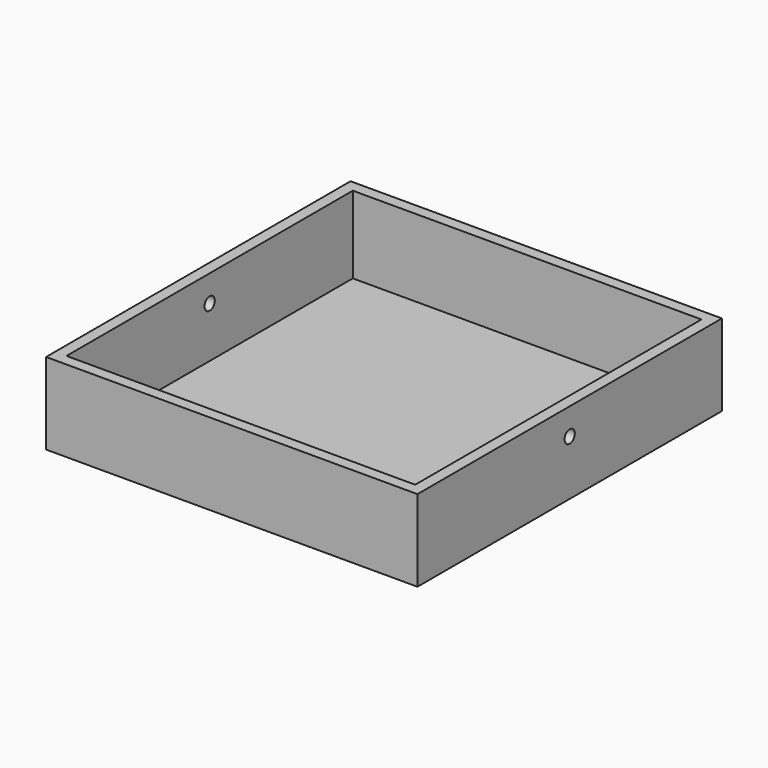
from build123d import *

# Parameters (mm, degrees)
F0_W     = 77.190011016
F0_H     = 79.099989416
F0_W_2   = 72.470011016
F0_H_2   = 74.379989416
F1_DEPTH = 16.95
F2_W     = 79.099989416
F2_H     = 0.9
F3_DEPTH = 74.830011016
F4_R     = 1.33
F5_DEPTH = 77.191011016
F6_R     = 2.3749
F7_DEPTH = 1.8288


with BuildPart() as f1:
    # F0 (on Top) → F1 (new body)
    with BuildSketch(Plane.XY):
        Rectangle(F0_W, F0_H)
        Rectangle(F0_W_2, F0_H_2, mode=Mode.SUBTRACT)
    extrude(amount=F1_DEPTH)

    # F2 (on face) → F3 (join, through all)
    with BuildSketch(Plane(origin=(-38.595005508, 0, 0), x_dir=(0, -1, 0), z_dir=(-1, 0, 0))):
        with Locations((0, 0.45)):
            Rectangle(F2_W, F2_H)
    extrude(amount=-F3_DEPTH)

    # F4 (on face) → F5 (cut, through all)
    with BuildSketch(Plane(origin=(-38.595005508, 0, 0), x_dir=(0, -1, 0), z_dir=(-1, 0, 0))):
        with Locations((0, 11.424992)):
            Circle(F4_R)
    extrude(amount=-F5_DEPTH, mode=Mode.SUBTRACT)

    # F6 (on face) → F7 (join)
    with BuildSketch(Plane(origin=(0, 0, 0), x_dir=(1, 0, 0), z_dir=(0, 0, -1))):
        with Locations((-27.6479, 27.6479)):
            Circle(F6_R)
        with Locations((-19.5961, 27.6479)):
            Circle(F6_R)
        with Locations((-11.8999, 27.6479)):
            Circle(F6_R)
        with Locations((-3.8481, 27.6479)):
            Circle(F6_R)
        with Locations((3.8481, 27.6479)):
            Circle(F6_R)
        with Locations((11.8999, 27.6479)):
            Circle(F6_R)
        with Locations((19.5961, 27.6479)):
            Circle(F6_R)
        with Locations((27.6479, 27.6479)):
            Circle(F6_R)
        with Locations((27.6479, 19.5961)):
            Circle(F6_R)
        with Locations((19.5961, 19.5961)):
            Circle(F6_R)
        with Locations((11.8999, 19.5961)):
            Circle(F6_R)
        with Locations((3.8481, 19.5961)):
            Circle(F6_R)
        with Locations((-3.8481, 19.5961)):
            Circle(F6_R)
        with Locations((-11.8999, 19.5961)):
            Circle(F6_R)
        with Locations((-19.5961, 19.5961)):
            Circle(F6_R)
        with Locations((-27.6479, 19.5961)):
            Circle(F6_R)
        with Locations((-27.6479, 11.8999)):
            Circle(F6_R)
        with Locations((-19.5961, 11.8999)):
            Circle(F6_R)
        with Locations((-11.8999, 11.8999)):
            Circle(F6_R)
        with Locations((-3.8481, 11.8999)):
            Circle(F6_R)
        with Locations((3.8481, 11.8999)):
            Circle(F6_R)
        with Locations((11.8999, 11.8999)):
            Circle(F6_R)
        with Locations((19.5961, 11.8999)):
            Circle(F6_R)
        with Locations((27.6479, 11.8999)):
            Circle(F6_R)
        with Locations((27.6479, 3.8481)):
            Circle(F6_R)
        with Locations((19.5961, 3.8481)):
            Circle(F6_R)
        with Locations((11.8999, 3.8481)):
            Circle(F6_R)
        with Locations((3.8481, 3.8481)):
            Circle(F6_R)
        with Locations((-3.8481, 3.8481)):
            Circle(F6_R)
        with Locations((-11.8999, 3.8481)):
            Circle(F6_R)
        with Locations((-19.5961, 3.8481)):
            Circle(F6_R)
        with Locations((-27.6479, 3.8481)):
            Circle(F6_R)
        with Locations((-27.6479, -3.8481)):
            Circle(F6_R)
        with Locations((-19.5961, -3.8481)):
            Circle(F6_R)
        with Locations((-11.8999, -3.8481)):
            Circle(F6_R)
        with Locations((-3.8481, -3.8481)):
            Circle(F6_R)
        with Locations((3.8481, -3.8481)):
            Circle(F6_R)
        with Locations((11.8999, -3.8481)):
            Circle(F6_R)
        with Locations((19.5961, -3.8481)):
            Circle(F6_R)
        with Locations((27.6479, -3.8481)):
            Circle(F6_R)
        with Locations((27.6479, -11.8999)):
            Circle(F6_R)
        with Locations((19.5961, -11.8999)):
            Circle(F6_R)
        with Locations((11.8999, -11.8999)):
            Circle(F6_R)
        with Locations((3.8481, -11.8999)):
            Circle(F6_R)
        with Locations((-3.8481, -11.8999)):
            Circle(F6_R)
        with Locations((-11.8999, -11.8999)):
            Circle(F6_R)
        with Locations((-19.5961, -11.8999)):
            Circle(F6_R)
        with Locations((-27.6479, -11.8999)):
            Circle(F6_R)
        with Locations((-27.6479, -19.5961)):
            Circle(F6_R)
        with Locations((-19.5961, -19.5961)):
            Circle(F6_R)
        with Locations((-11.8999, -19.5961)):
            Circle(F6_R)
        with Locations((-3.8481, -19.5961)):
            Circle(F6_R)
        with Locations((3.8481, -19.5961)):
            Circle(F6_R)
        with Locations((11.8999, -19.5961)):
            Circle(F6_R)
        with Locations((19.5961, -19.5961)):
            Circle(F6_R)
        with Locations((27.6479, -19.5961)):
            Circle(F6_R)
        with Locations((27.6479, -27.6479)):
            Circle(F6_R)
        with Locations((19.5961, -27.6479)):
            Circle(F6_R)
        with Locations((11.8999, -27.6479)):
            Circle(F6_R)
        with Locations((3.8481, -27.6479)):
            Circle(F6_R)
        with Locations((-3.8481, -27.6479)):
            Circle(F6_R)
        with Locations((-11.8999, -27.6479)):
            Circle(F6_R)
        with Locations((-19.5961, -27.6479)):
            Circle(F6_R)
        with Locations((-27.6479, -27.6479)):
            Circle(F6_R)
    extrude(amount=F7_DEPTH)


solid = f1.part
